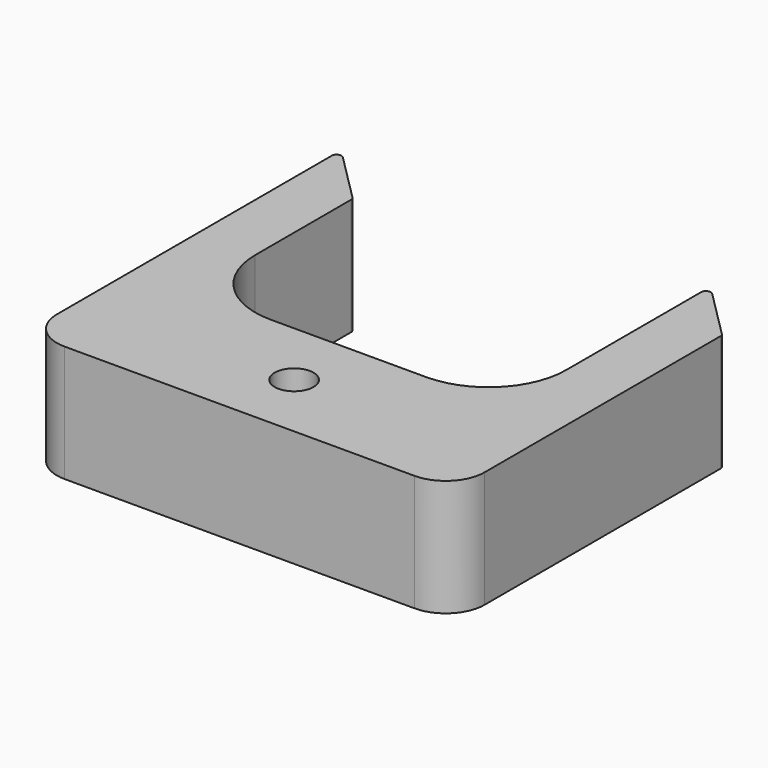
from build123d import *

# Parameters (mm, degrees)
F1_DEPTH = 19.05
F2_R     = 3.175
F3_DEPTH = 19.051
F5_DEPTH = 19.051


with BuildPart() as f1:
    # F0 (on Top) → F1 (new body)
    with BuildSketch(Plane.XY):
        with BuildLine():
            ThreePointArc((0, 6.35), (1.859872, 1.859872), (6.35, 0))
            Line((6.35, 0), (63.5, 0))
            ThreePointArc((63.5, 0), (67.990128, 1.859872), (69.85, 6.35))
            Line((69.85, 6.35), (69.85, 114.3))
            ThreePointArc((69.85, 114.3), (67.990128, 118.790128), (63.5, 120.65))
            Line((63.5, 120.65), (6.35, 120.65))
            ThreePointArc((6.35, 120.65), (1.859872, 118.790128), (0, 114.3))
            Line((0, 114.3), (0, 6.35))
        make_face()
    extrude(amount=F1_DEPTH)

    # F2 (on face) → F3 (cut, through all)
    with BuildSketch(Plane.XY.offset(19.05)):
        with Locations((34.925, 109.5375)):
            Circle(F2_R)
        with Locations((34.925, 11.1125)):
            Circle(F2_R)
        with BuildLine():
            Line((47.625, 98.425), (22.225, 98.425))
            ThreePointArc((22.225, 98.425), (13.244744, 94.705256), (9.525, 85.725))
            Line((9.525, 85.725), (9.525, 34.925))
            ThreePointArc((9.525, 34.925), (13.244744, 25.944744), (22.225, 22.225))
            Line((22.225, 22.225), (47.625, 22.225))
            ThreePointArc((47.625, 22.225), (56.605256, 25.944744), (60.325, 34.925))
            Line((60.325, 34.925), (60.325, 85.725))
            ThreePointArc((60.325, 85.725), (56.605256, 94.705256), (47.625, 98.425))
        make_face()
    extrude(amount=-F3_DEPTH, mode=Mode.SUBTRACT)

    # F4 (on face) → F5 (cut, through all)
    with BuildSketch(Plane.XY.offset(19.05)):
        with BuildLine():
            ThreePointArc((0, 62.452797), (0.489995, 63.186127), (1.355016, 63.014064))
            Line((1.355016, 63.014064), (9.292516, 55.076564))
            ThreePointArc((9.292516, 55.076564), (9.464579, 54.819052), (9.525, 54.515297))
            Line((9.525, 54.515297), (9.525, 85.725))
            ThreePointArc((9.525, 85.725), (13.244744, 94.705256), (22.225, 98.425))
            Line((22.225, 98.425), (47.625, 98.425))
            ThreePointArc((47.625, 98.425), (56.605256, 94.705256), (60.325, 85.725))
            Line((60.325, 85.725), (60.325, 62.452797))
            ThreePointArc((60.325, 62.452797), (60.814995, 63.186127), (61.680016, 63.014064))
            Line((61.680016, 63.014064), (69.617516, 55.076564))
            ThreePointArc((69.617516, 55.076564), (69.789579, 54.819052), (69.85, 54.515297))
            Line((69.85, 54.515297), (69.85, 114.3))
            ThreePointArc((69.85, 114.3), (67.990128, 118.790128), (63.5, 120.65))
            Line((63.5, 120.65), (6.35, 120.65))
            ThreePointArc((6.35, 120.65), (1.859872, 118.790128), (0, 114.3))
            Line((0, 114.3), (0, 62.452797))
        make_face()
    extrude(amount=-F5_DEPTH, mode=Mode.SUBTRACT)


solid = f1.part
